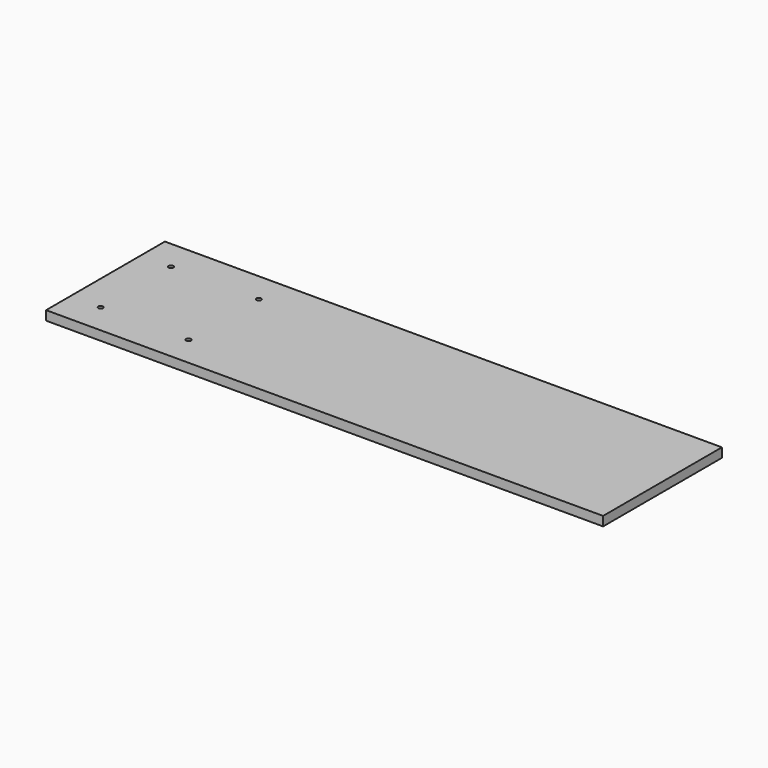
from build123d import *

# Parameters (mm, degrees)
F0_W     = 762
F0_H     = 203.2
F1_DEPTH = 12.7
F3_D     = 6.5278


with BuildPart() as f1:
    # F0 (on Top) → F1 (new body)
    with BuildSketch(Plane.XY):
        Rectangle(F0_W, F0_H)
        Rectangle(F0_W, F0_H)
    extrude(amount=F1_DEPTH)

    # F3 (through all)
    with Locations(Plane.XY.offset(12.7)):
        with Locations((-339.5040764009, -60.1040764009), (-339.5040764009, 60.1040764009), (-219.2959235991, 60.1040764009), (-219.2959235991, -60.1040764009)):
            Hole(F3_D / 2)


solid = f1.part
